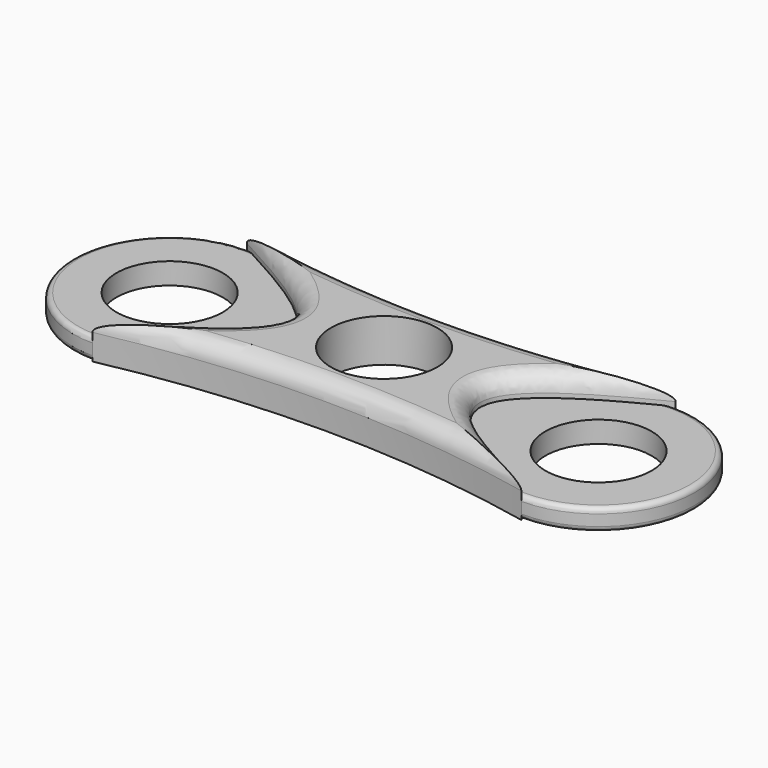
from build123d import *

# Parameters (mm, degrees)
F0_R     = 7.874
F1_DEPTH = 3.175
F2_DEPTH = 6.35
F3_R     = 0.762
F4_R     = 2.54


with BuildPart() as f1:
    # F0 (on Top) → F1 (new body)
    with BuildSketch(Plane.XY):
        with BuildLine():
            ThreePointArc((-28.609937, 14.2875), (-42.897437, 0), (-28.609937, -14.2875))
            add(Edge.make_bspline(
                [(-28.609937, 14.2875), (-19.843796, 9.525), (-2.311514, 0), (-19.843796, -9.525), (-28.609937, -14.2875)],
                knots=[0, 0, 0, 0, 22.616666, 45.233331, 45.233331, 45.233331, 45.233331], degree=3))
        make_face()
        with Locations((-28.609937, 0)):
            Circle(F0_R, mode=Mode.SUBTRACT)
        with BuildLine():
            add(Edge.make_bspline(
                [(34.890063, 14.2875), (25.350589, 9.525), (9.377537, 0), (25.350589, -9.525), (34.890063, -14.2875)],
                knots=[0, 0, 0, 0, 22.611796, 45.223593, 45.223593, 45.223593, 45.223593], degree=3))
            ThreePointArc((34.890063, -14.2875), (49.177563, 0), (34.890063, 14.2875))
        make_face()
        with Locations((34.890063, 0)):
            Circle(F0_R, mode=Mode.SUBTRACT)
    extrude(amount=F1_DEPTH)

    # F3
    f3_edges = [f1.edges().sort_by_distance(p)[0] for p in [
        (-42.897437, 0, 3.175),
        (49.177563, 0, 3.175),
        (49.177563, 0, 0),
        (-42.897437, 0, 0),
    ]]
    fillet(f3_edges, radius=F3_R)


with BuildPart() as f2:
    # F0 (on Top) → F2 (new body)
    with BuildSketch(Plane.XY):
        with BuildLine():
            ThreePointArc((-28.609937, -14.2875), (3.140063, -10.999431), (34.890063, -14.2875))
            add(Edge.make_bspline(
                [(34.890063, 14.2875), (25.350589, 9.525), (9.377537, 0), (25.350589, -9.525), (34.890063, -14.2875)],
                knots=[0, 0, 0, 0, 22.611796, 45.223593, 45.223593, 45.223593, 45.223593], degree=3))
            ThreePointArc((34.890063, 14.2875), (3.140063, 10.764632), (-28.609937, 14.2875))
            add(Edge.make_bspline(
                [(-28.609937, 14.2875), (-19.843796, 9.525), (-2.311514, 0), (-19.843796, -9.525), (-28.609937, -14.2875)],
                knots=[0, 0, 0, 0, 22.616666, 45.233331, 45.233331, 45.233331, 45.233331], degree=3))
        make_face()
        with Locations((3.140063, 0)):
            Circle(F0_R, mode=Mode.SUBTRACT)
    extrude(amount=F2_DEPTH)

    # F4
    f4_edges = [f2.edges().sort_by_distance(p)[0] for p in [
        (3.140063, -10.999431, 6.35),
        (3.140063, 10.764632, 6.35),
        (17.364063, 0, 6.35),
        (-11.077655, 0, 6.35),
    ]]
    fillet(f4_edges, radius=F4_R)


solid = Compound([f1.part, f2.part])
